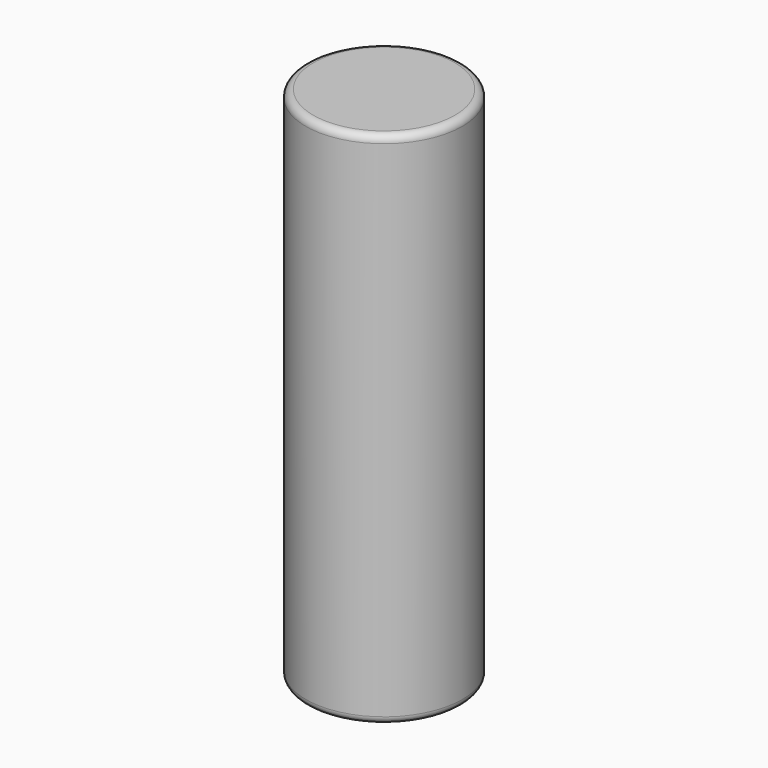
from build123d import *

# Parameters (mm, degrees)
SKETCH_R  = 10.575
PAD_DEPTH = 70.15
FILLET_R  = 1


with BuildPart() as part:
    # Sketch → Pad (new body)
    with BuildSketch(Plane.XY):
        Circle(SKETCH_R)
    extrude(amount=PAD_DEPTH)

    # Fillet
    fillet_edges = [part.edges().sort_by_distance(p)[0] for p in [
        (-10.575, 0, 70.15),
        (-10.575, 0, 0),
    ]]
    fillet(fillet_edges, radius=FILLET_R)


solid = part.part
